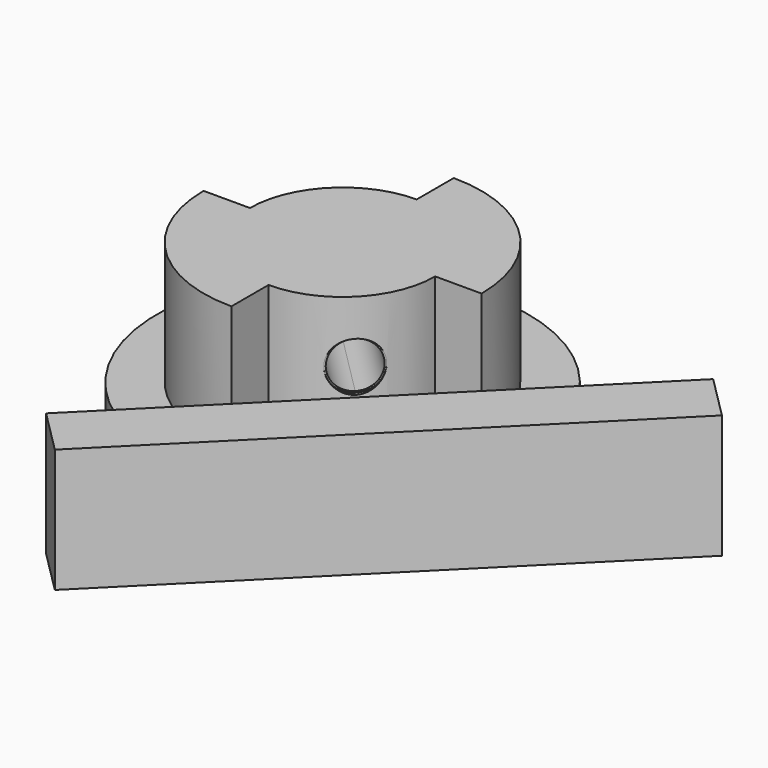
from build123d import *

# Parameters (mm, degrees)
F1_DEPTH = 20
F0_R     = 30
F2_DEPTH = 10
F4_DEPTH = 20
F6_DEPTH = 60
F7_DEPTH = 28


with BuildPart() as f1:
    # F0 (on Top) → F1 (new body)
    with BuildSketch(Plane.XY):
        with BuildLine():
            ThreePointArc((0, -15), (10.6066017178, -10.6066017178), (15, 0))
            ThreePointArc((15, 0), (10.6066017178, 10.6066017178), (0, 15))
            ThreePointArc((0, 15), (-10.6066017178, 10.6066017178), (-15, 0))
            ThreePointArc((-15, 0), (-10.6066017178, -10.6066017178), (0, -15))
        make_face()
        with BuildLine():
            ThreePointArc((0, 15), (10.6066017178, 10.6066017178), (15, 0))
            Line((15, 0), (22.5, 0))
            ThreePointArc((22.5, 0), (15.9099025767, 15.9099025767), (0, 22.5))
            Line((0, 22.5), (0, 15))
        make_face()
        with BuildLine():
            Line((0, -22.5), (0, -15))
            ThreePointArc((0, -15), (-10.6066017178, -10.6066017178), (-15, 0))
            Line((-15, 0), (-22.5, 0))
            ThreePointArc((-22.5, 0), (-15.9099025767, -15.9099025767), (0, -22.5))
        make_face()
    extrude(amount=F1_DEPTH)

    # F0 (on Top) → F2 (join)
    with BuildSketch(Plane.XY):
        Circle(F0_R)
        with BuildLine():
            ThreePointArc((0, 22.5), (15.9099025767, 15.9099025767), (22.5, 0))
            ThreePointArc((22.5, 0), (15.9099025767, -15.9099025767), (0, -22.5))
            ThreePointArc((0, -22.5), (-15.9099025767, -15.9099025767), (-22.5, 0))
            ThreePointArc((-22.5, 0), (-15.9099025767, 15.9099025767), (0, 22.5))
        make_face(mode=Mode.SUBTRACT)
        with BuildLine():
            ThreePointArc((0, 15), (10.6066017178, 10.6066017178), (15, 0))
            Line((15, 0), (22.5, 0))
            ThreePointArc((22.5, 0), (15.9099025767, 15.9099025767), (0, 22.5))
            Line((0, 22.5), (0, 15))
        make_face()
        with BuildLine():
            ThreePointArc((0, -15), (10.6066017178, -10.6066017178), (15, 0))
            ThreePointArc((15, 0), (10.6066017178, 10.6066017178), (0, 15))
            ThreePointArc((0, 15), (-10.6066017178, 10.6066017178), (-15, 0))
            ThreePointArc((-15, 0), (-10.6066017178, -10.6066017178), (0, -15))
        make_face()
        with BuildLine():
            Line((0, -22.5), (0, -15))
            ThreePointArc((0, -15), (-10.6066017178, -10.6066017178), (-15, 0))
            Line((-15, 0), (-22.5, 0))
            ThreePointArc((-22.5, 0), (-15.9099025767, -15.9099025767), (0, -22.5))
        make_face()
    extrude(amount=-F2_DEPTH)

    # F5 (on face) → F6 (cut)
    with BuildSketch(Plane(origin=(30, -30, 0), x_dir=(-0.7071067812, -0.7071067812, 0), z_dir=(-0.7071067812, 0.7071067812, 0))):
        with BuildLine():
            Line((0, 6.25), (0, 13.75))
            ThreePointArc((0, 13.75), (-3.75, 10), (0, 6.25))
        make_face()
        with BuildLine():
            ThreePointArc((3.75, 10), (2.6516504294, 12.6516504294), (0, 13.75))
            Line((0, 13.75), (0, 6.25))
            ThreePointArc((0, 6.25), (2.6516504294, 7.3483495706), (3.75, 10))
        make_face()
    extrude(amount=F6_DEPTH, mode=Mode.SUBTRACT)

    # F5 (on face) → F7 (cut)
    with BuildSketch(Plane(origin=(30, -30, 0), x_dir=(-0.7071067812, -0.7071067812, 0), z_dir=(-0.7071067812, 0.7071067812, 0))):
        with BuildLine():
            Line((0, 13.75), (0, 14))
            ThreePointArc((0, 14), (-4, 10), (0, 6))
            Line((0, 6), (0, 6.25))
            ThreePointArc((0, 6.25), (-3.75, 10), (0, 13.75))
        make_face()
        with BuildLine():
            ThreePointArc((4, 10), (2.8284271247, 12.8284271247), (0, 14))
            Line((0, 14), (0, 13.75))
            ThreePointArc((0, 13.75), (2.6516504294, 12.6516504294), (3.75, 10))
            ThreePointArc((3.75, 10), (2.6516504294, 7.3483495706), (0, 6.25))
            Line((0, 6.25), (0, 6))
            ThreePointArc((0, 6), (2.8284271247, 7.1715728753), (4, 10))
        make_face()
    extrude(amount=F7_DEPTH, mode=Mode.SUBTRACT)


with BuildPart() as f4:
    # F3 (on Top) → F4 (new body)
    with BuildSketch(Plane.XY):
        Polygon((67.0710678119, -7.0710678119), (60, 0), (0, -60), (7.0710678119, -67.0710678119), align=None)
    extrude(amount=F4_DEPTH)


solid = Compound([f1.part, f4.part])
